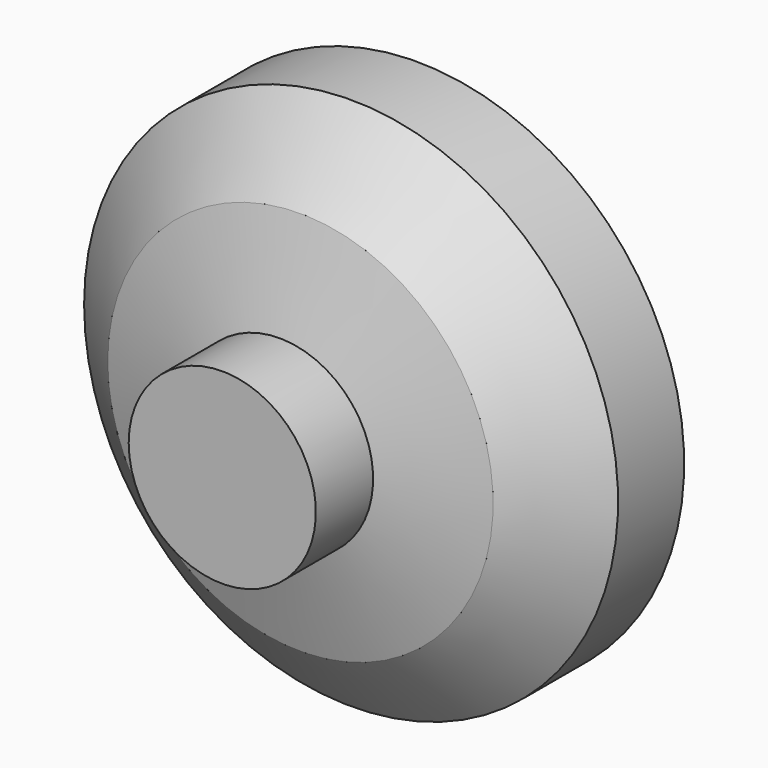
from build123d import *

# Parameters (mm, degrees)
F2_T = -5


with BuildPart() as f1:
    # F0 (on Top) → F1 (revolve)
    with BuildSketch(Plane.XY):
        Polygon((-25.3672786057, 19.3985067308), (-25.3672786057, 0), (0, 0), (0, 66.0295262933), (-72.3713487387, 66.0295262933), (-72.3713487387, 43.6466373503), (-52.2267483175, 26.4864228666), align=None)
    revolve(axis=Axis((0, 33.0147631466, 0), (0, -1, 0)))

    # F2
    f2_openings = [f1.faces().sort_by_distance(p)[0] for p in [
        (0, 66.029526, 0),
    ]]
    offset(amount=F2_T, openings=f2_openings, kind=Kind.INTERSECTION)


solid = f1.part
